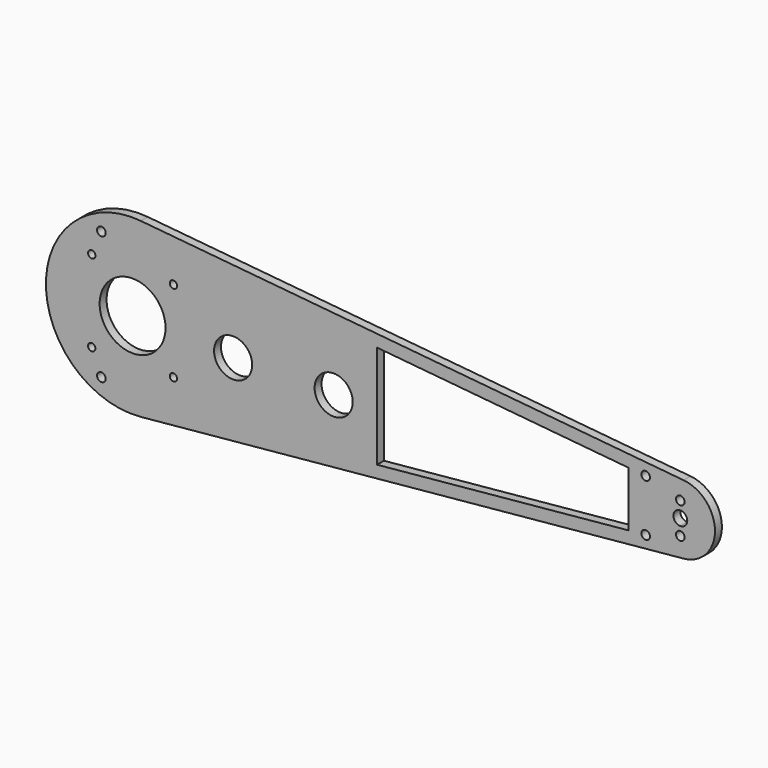
from build123d import *

# Parameters (mm, degrees)
F0_R     = 2.5
F0_R_2   = 2.125
F0_R_3   = 11
F0_R_4   = 19
F1_DEPTH = 5


with BuildPart() as f1:
    # F0 (on Front) → F1 (new body)
    with BuildSketch(Plane.XZ):
        with BuildLine():
            Line((193.4449201921, 19.9096662083), (-119.7069785421, 49.7741655206))
            ThreePointArc((-119.7069785421, 49.7741655206), (-174.4538139851, 0), (-119.7069785421, -49.7741655206))
            Line((-119.7069785421, -49.7741655206), (193.4449201921, -19.9096662083))
            ThreePointArc((193.4449201921, -19.9096662083), (211.5461860149, 0), (193.4449201921, 19.9096662083))
        make_face()
        with Locations((-142.4538139851, -37)):
            Circle(F0_R, mode=Mode.SUBTRACT)
        with Locations((-148.0238139851, -23.57)):
            Circle(F0_R_2, mode=Mode.SUBTRACT)
        with Locations((-100.8838139851, -23.57)):
            Circle(F0_R_2, mode=Mode.SUBTRACT)
        with Locations((-66.4538139851, -2.4558089723)):
            Circle(F0_R_3, mode=Mode.SUBTRACT)
        with Locations((-8.4538139851, -2.4558089723)):
            Circle(F0_R_3, mode=Mode.SUBTRACT)
        Polygon((16.5461860149, -29.7482878325), (16.5461860149, 29.7482878325), (161.5461860149, 15.9200069956), (161.5461860149, -15.9200069956), align=None, mode=Mode.SUBTRACT)
        with Locations((171.5461860149, -15)):
            Circle(F0_R, mode=Mode.SUBTRACT)
        with BuildLine():
            ThreePointArc((194.0461860149, -9), (189.7784190619, -10.767766953), (191.5461860149, -6.5))
            ThreePointArc((191.5461860149, -6.5), (193.3139529678, -7.232233047), (194.0461860149, -9))
        make_face(mode=Mode.SUBTRACT)
        with Locations((-124.4538139851, 0)):
            Circle(F0_R_4, mode=Mode.SUBTRACT)
        with Locations((-148.0238139851, 23.57)):
            Circle(F0_R_2, mode=Mode.SUBTRACT)
        with Locations((-100.8838139851, 23.57)):
            Circle(F0_R_2, mode=Mode.SUBTRACT)
        with Locations((-142.4538139851, 37)):
            Circle(F0_R, mode=Mode.SUBTRACT)
        with BuildLine():
            ThreePointArc((191.5461860149, 4), (194.3746131396, 2.8284271247), (195.5461860149, 0))
            ThreePointArc((195.5461860149, 0), (194.3746131396, -2.8284271247), (191.5461860149, -4))
            ThreePointArc((191.5461860149, -4), (187.5461860149, 0), (191.5461860149, 4))
        make_face(mode=Mode.SUBTRACT)
        with BuildLine():
            ThreePointArc((194.0461860149, 9), (193.3139529678, 7.232233047), (191.5461860149, 6.5))
            ThreePointArc((191.5461860149, 6.5), (189.7784190619, 10.767766953), (194.0461860149, 9))
        make_face(mode=Mode.SUBTRACT)
        with Locations((171.5461860149, 15)):
            Circle(F0_R, mode=Mode.SUBTRACT)
    extrude(amount=F1_DEPTH)


solid = f1.part
